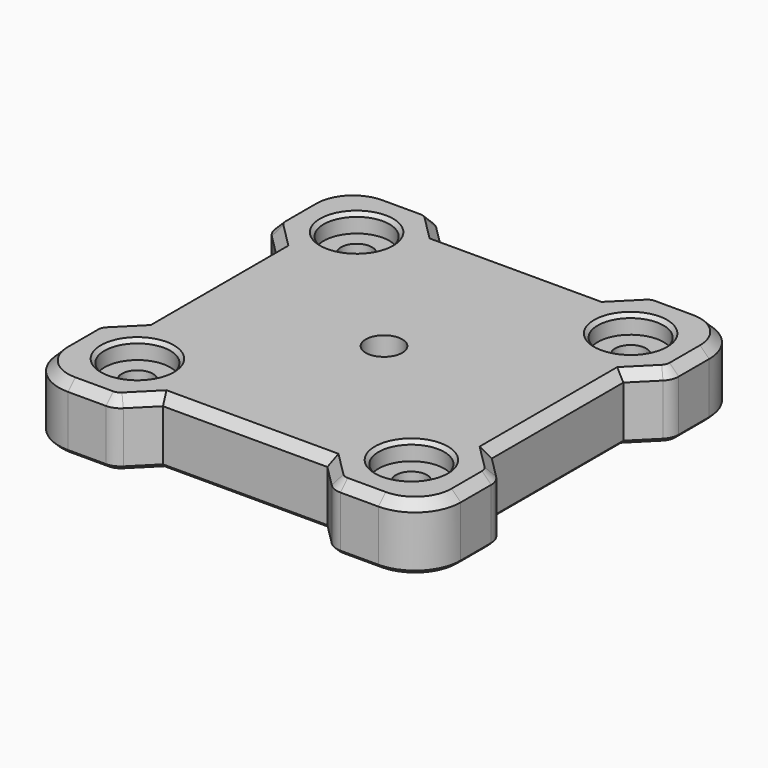
from build123d import *

# Parameters (mm, degrees)
SKETCH004_W        = 44
SKETCH004_H        = 44
SKETCH004_R        = 1.7
PAD001_DEPTH       = 7
SKETCH005_R        = 3.6
POCKET003_DEPTH    = 2
FILLET001_R        = 5
POCKET004_DEPTH    = 132.236778
POLARPATTERN_COUNT = 4
FILLET002_R        = 2
CHAMFER013_SIZE    = 1
CHAMFER014_SIZE    = 0.4
SKETCH009_R        = 2
POCKET005_DEPTH    = 7.001
CHAMFER015_SIZE    = 1


with BuildPart() as part:
    # Sketch004 → Pad001 (new body)
    with BuildSketch(Plane.XY):
        Rectangle(SKETCH004_W, SKETCH004_H)
        with Locations((-15, 15)):
            Circle(SKETCH004_R, mode=Mode.SUBTRACT)
        with Locations((15, 15)):
            Circle(SKETCH004_R, mode=Mode.SUBTRACT)
        with Locations((-15, -15)):
            Circle(SKETCH004_R, mode=Mode.SUBTRACT)
        with Locations((15, -15)):
            Circle(SKETCH004_R, mode=Mode.SUBTRACT)
    extrude(amount=PAD001_DEPTH)

    # Sketch005 (on Face10 of Pad001) → Pocket003 (cut)
    with BuildSketch(Plane.XY.offset(7)):
        with Locations((-15, 15)):
            Circle(SKETCH005_R)
        with Locations((15, 15)):
            Circle(SKETCH005_R)
        with Locations((-15, -15)):
            Circle(SKETCH005_R)
        with Locations((15, -15)):
            Circle(SKETCH005_R)
    extrude(amount=-POCKET003_DEPTH, mode=Mode.SUBTRACT)

    # Fillet001
    fillet001_edges = [part.edges().sort_by_distance(p)[0] for p in [
        (-22, 22, 3.5),
        (-22, -22, 3.5),
        (22, -22, 3.5),
        (22, 22, 3.5),
    ]]
    fillet(fillet001_edges, radius=FILLET001_R)

    # Sketch008 (on Face5 of Fillet001) → Pocket004 (cut, through all)
    with BuildSketch(Plane.XY.offset(7)):
        Polygon((-22, 12), (-19, 9), (-19, -9), (-22, -12), align=None)
    pocket004 = extrude(amount=-POCKET004_DEPTH, mode=Mode.SUBTRACT)

    # PolarPattern: Pocket004 ×4 about axis
    polarpattern_axis = Axis((0, 0, 7), (0, 0, 1))
    for i in range(1, POLARPATTERN_COUNT):
        add(pocket004.rotate(polarpattern_axis, i * 360 / POLARPATTERN_COUNT), mode=Mode.SUBTRACT)

    # Fillet002
    fillet002_edges = [part.edges().sort_by_distance(p)[0] for p in [
        (-22, 12, 3.5),
        (-22, -12, 3.5),
        (-12, -22, 3.5),
        (12, -22, 3.5),
        (22, -12, 3.5),
        (22, 12, 3.5),
        (12, 22, 3.5),
        (-12, 22, 3.5),
    ]]
    fillet(fillet002_edges, radius=FILLET002_R)

    # Chamfer013
    chamfer013_edges = [part.edges().sort_by_distance(p)[0] for p in [
        (20.535534, 20.535534, 7),
        (14.914214, 22, 7),
        (12.06306, 21.847759, 7),
        (10.207107, 20.207107, 7),
        (0, 19, 7),
        (-10.207107, 20.207107, 7),
        (-12.06306, 21.847759, 7),
        (-14.914214, 22, 7),
        (-20.535534, 20.535534, 7),
        (-22, 14.914214, 7),
        (-20.207107, 10.207107, 7),
        (-21.847759, 12.06306, 7),
        (-19, 0, 7),
        (-20.207107, -10.207107, 7),
        (-21.847759, -12.06306, 7),
        (-22, -14.914214, 7),
        (-20.535534, -20.535534, 7),
        (-14.914214, -22, 7),
        (-12.06306, -21.847759, 7),
        (-10.207107, -20.207107, 7),
        (0, -19, 7),
        (10.207107, -20.207107, 7),
        (12.06306, -21.847759, 7),
        (14.914214, -22, 7),
        (20.535534, -20.535534, 7),
        (22, -14.914214, 7),
        (21.847759, -12.06306, 7),
        (20.207107, -10.207107, 7),
        (19, 0, 7),
        (20.207107, 10.207107, 7),
        (21.847759, 12.06306, 7),
        (22, 14.914214, 7),
    ]]
    chamfer(chamfer013_edges, length=CHAMFER013_SIZE)

    # Chamfer014
    chamfer014_edges = [part.edges().sort_by_distance(p)[0] for p in [
        (-22, 14.914214, 0),
        (-21.847759, 12.06306, 0),
        (-20.535534, 20.535534, 0),
        (-20.207107, 10.207107, 0),
        (-14.914214, 22, 0),
        (-19, 0, 0),
        (-12.06306, 21.847759, 0),
        (-20.207107, -10.207107, 0),
        (-10.207107, 20.207107, 0),
        (-21.847759, -12.06306, 0),
        (0, 19, 0),
        (-22, -14.914214, 0),
        (10.207107, 20.207107, 0),
        (-20.535534, -20.535534, 0),
        (12.06306, 21.847759, 0),
        (-14.914214, -22, 0),
        (14.914214, 22, 0),
        (-12.06306, -21.847759, 0),
        (20.535534, 20.535534, 0),
        (-10.207107, -20.207107, 0),
        (22, 14.914214, 0),
        (0, -19, 0),
        (21.847759, 12.06306, 0),
        (10.207107, -20.207107, 0),
        (20.207107, 10.207107, 0),
        (12.06306, -21.847759, 0),
        (19, 0, 0),
        (14.914214, -22, 0),
        (20.207107, -10.207107, 0),
        (20.535534, -20.535534, 0),
        (21.847759, -12.06306, 0),
        (22, -14.914214, 0),
        (13.3, -15, 0),
        (-16.7, -15, 0),
        (13.3, 15, 0),
        (-16.7, 15, 0),
        (11.4, 15, 7),
        (11.4, -15, 7),
        (-18.6, -15, 7),
        (-18.6, 15, 7),
    ]]
    chamfer(chamfer014_edges, length=CHAMFER014_SIZE)

    # Sketch009 (on Face11 of Chamfer014) → Pocket005 (cut, through all)
    with BuildSketch(Plane.XY.offset(7)):
        Circle(SKETCH009_R)
    extrude(amount=-POCKET005_DEPTH, mode=Mode.SUBTRACT)

    # Chamfer015
    chamfer015_edges = [part.edges().sort_by_distance(p)[0] for p in [
        (-2, 0, 0),
    ]]
    chamfer(chamfer015_edges, length=CHAMFER015_SIZE)


with BuildPart() as part_1:
    # Body001 placement: moved
    add(part.part.moved(Location((0, 0, 15))))


solid = part_1.part
